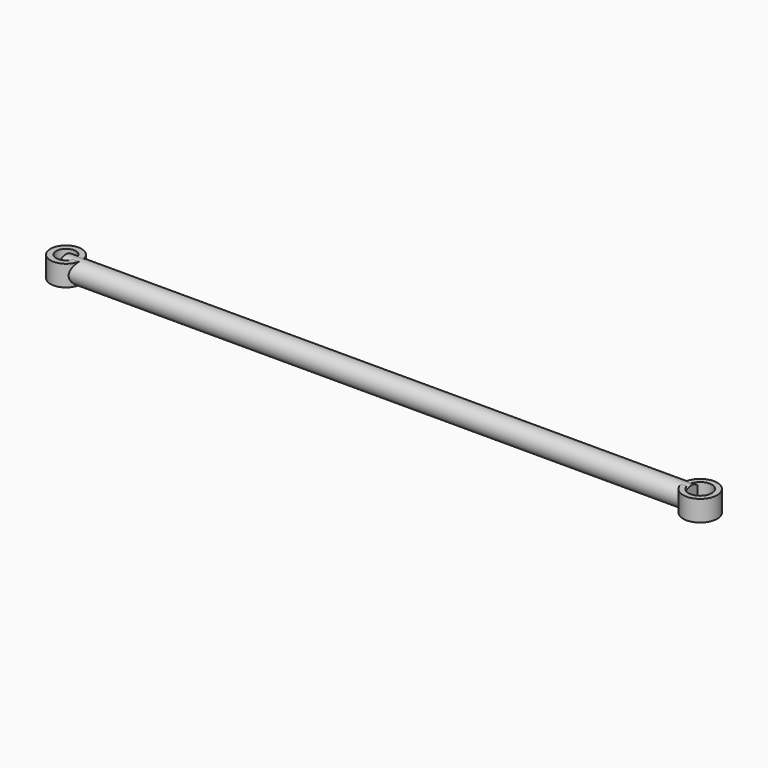
from build123d import *

# Parameters (mm, degrees)
F0_R     = 13.154168
F1_DEPTH = 762
F2_R     = 18.971527
F2_R_2   = 11.90755
F2_R_3   = 20.688573
F2_R_4   = 14.186626
F3_DEPTH = 12.7


with BuildPart() as f1:
    # F0 (on Right) → F1 (new body)
    with BuildSketch(Plane.YZ):
        Circle(F0_R)
    extrude(amount=F1_DEPTH)

    # F2 (on Top) → F3 (join, symmetric)
    with BuildSketch(Plane.XY):
        Circle(F2_R)
        Circle(F2_R_2, mode=Mode.SUBTRACT)
        with Locations((772.7651, 0)):
            Circle(F2_R_3)
        with Locations((772.7651, 0)):
            Circle(F2_R_4, mode=Mode.SUBTRACT)
    extrude(amount=F3_DEPTH, both=True)


solid = f1.part
